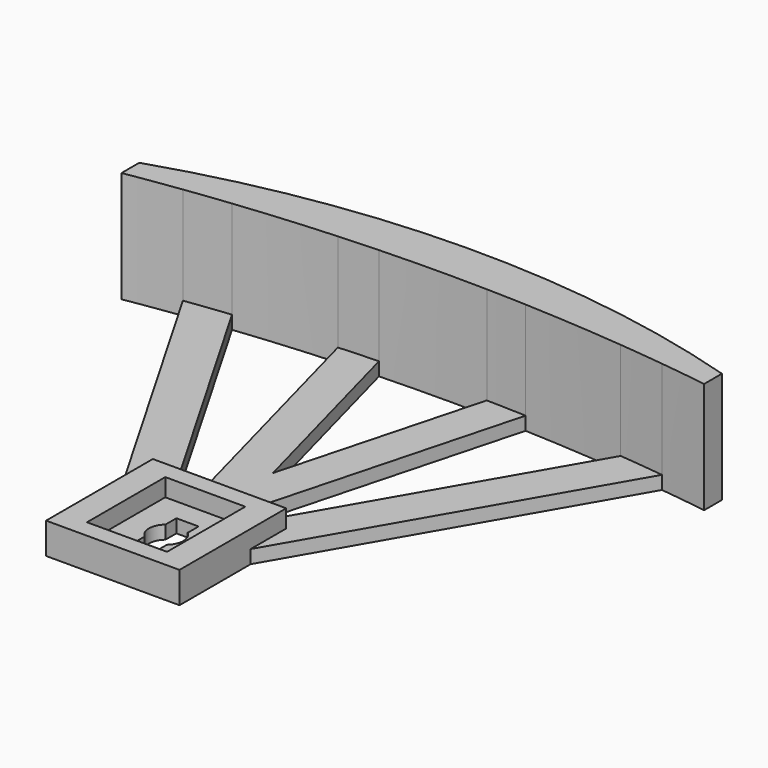
from build123d import *

# Parameters (mm, degrees)
F0_W     = 18
F0_H     = 22
F1_DEPTH = 7
F2_DEPTH = 3
F3_DEPTH = 3
F4_DEPTH = 25


with BuildPart() as f1:
    # F0 (on Top) → F1 (new body)
    with BuildSketch(Plane.XY):
        Polygon((15, 5), (15, 15), (10, 15), (5, 15), (-5, 15), (-10, 15), (-15, 15), (-15, 5), (-15, -15), (15, -15), align=None)
        Rectangle(F0_W, F0_H, mode=Mode.SUBTRACT)
    extrude(amount=F1_DEPTH)

    # F0 (on Top) → F2 (join)
    with BuildSketch(Plane.XY):
        Rectangle(F0_W, F0_H)
        with BuildLine():
            ThreePointArc((2.5, 2.927883), (3.496248, 1.612064), (3.85, 0))
            ThreePointArc((3.85, 0), (3.496248, -1.612064), (2.5, -2.927883))
            Line((2.5, -2.927883), (2.5, -6))
            Line((2.5, -6), (-2.5, -6))
            Line((-2.5, -6), (-2.5, -2.927883))
            ThreePointArc((-2.5, -2.927883), (-3.85, 0), (-2.5, 2.927883))
            Line((-2.5, 2.927883), (-2.5, 6))
            Line((-2.5, 6), (2.5, 6))
            Line((2.5, 6), (2.5, 2.927883))
        make_face(mode=Mode.SUBTRACT)
    extrude(amount=F2_DEPTH)

    # F0 (on Top) → F3 (join)
    with BuildSketch(Plane.XY):
        with BuildLine():
            Line((-15, 15), (-10, 15))
            Line((-10, 15), (-43.230891, 72.557591))
            ThreePointArc((-43.230891, 72.557591), (-48.26689, 71.973599), (-53.295612, 71.329946))
            Line((-53.295612, 71.329946), (-15, 5))
            Line((-15, 5), (-15, 15))
        make_face()
        with BuildLine():
            Line((-5, 15), (5, 15))
            Line((5, 15), (21.013009, 74.761364))
            ThreePointArc((21.013009, 74.761364), (16.540642, 74.921132), (12.066847, 75.034088))
            Line((12.066847, 75.034088), (0, 30))
            Line((0, 30), (-12.014256, 74.837814))
            ThreePointArc((-12.014256, 74.837814), (-16.469144, 74.652721), (-20.92186, 74.42119))
            Line((-20.92186, 74.42119), (-5, 15))
        make_face()
        with BuildLine():
            Line((10, 15), (15, 15))
            Line((15, 15), (15, 5))
            Line((15, 5), (53.772336, 72.155656))
            ThreePointArc((53.772336, 72.155656), (48.700199, 72.725298), (43.621624, 73.234362))
            Line((43.621624, 73.234362), (10, 15))
        make_face()
    extrude(amount=F3_DEPTH)

    # F0 (on Top) → F4 (join)
    with BuildSketch(Plane.XY):
        with BuildLine():
            ThreePointArc((21.013009, 74.761364), (32.327433, 74.147641), (43.621624, 73.234362))
            ThreePointArc((43.621624, 73.234362), (48.700199, 72.725298), (53.772336, 72.155656))
            ThreePointArc((53.772336, 72.155656), (59.070627, 71.495011), (64.360257, 70.768265))
            Line((64.360257, 70.768265), (64.360257, 75.768265))
            ThreePointArc((64.360257, 75.768265), (-0.734726, 85.130056), (-65.633486, 74.49281))
            Line((-65.633486, 74.49281), (-65.633486, 69.49281))
            ThreePointArc((-65.633486, 69.49281), (-59.471248, 70.456366), (-53.295612, 71.329946))
            ThreePointArc((-53.295612, 71.329946), (-48.26689, 71.973599), (-43.230891, 72.557591))
            ThreePointArc((-43.230891, 72.557591), (-32.088572, 73.6354), (-20.92186, 74.42119))
            ThreePointArc((-20.92186, 74.42119), (-16.469144, 74.652721), (-12.014256, 74.837814))
            ThreePointArc((-12.014256, 74.837814), (0.024914, 75.105497), (12.066847, 75.034088))
            ThreePointArc((12.066847, 75.034088), (16.540642, 74.921132), (21.013009, 74.761364))
        make_face()
    extrude(amount=F4_DEPTH)


solid = f1.part
